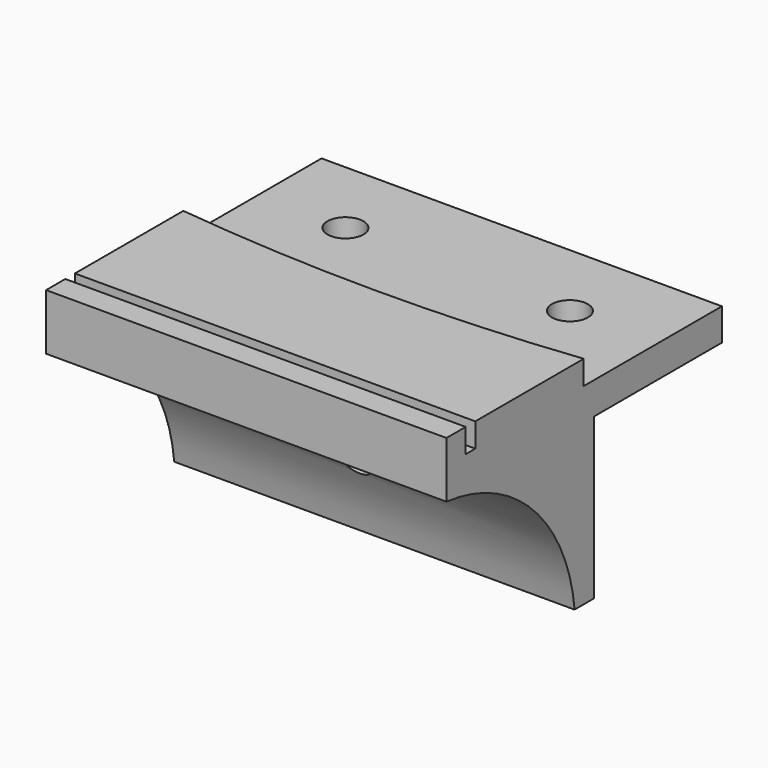
from build123d import *

# Parameters (mm, degrees)
F0_R          = 2.25
F0_W          = 50
F0_H          = 1.5
F0_H_2        = 3
F1_DEPTH      = 4
F2_DEPTH      = 7
F4_DEPTH      = 25
F4_DEPTH_BACK = 25
F6_R          = 2.25
F7_DEPTH      = 23
F6_R_2        = 3.75
F8_DEPTH      = 10


with BuildPart() as f1:
    # F0 (on Top) → F1 (new body)
    with BuildSketch(Plane.XY):
        with BuildLine():
            Line((-25, 43), (-25, 21.42507))
            ThreePointArc((-25, 21.42507), (0, 20), (25, 21.42507))
            Line((25, 21.42507), (25, 43))
            Line((25, 43), (-25, 43))
        make_face()
        with Locations((-14.01787, 33)):
            Circle(F0_R, mode=Mode.SUBTRACT)
        with Locations((14.01787, 33)):
            Circle(F0_R, mode=Mode.SUBTRACT)
        with BuildLine():
            ThreePointArc((25, 21.42507), (0, 20), (-25, 21.42507))
            Line((-25, 21.42507), (-25, 4.5))
            Line((-25, 4.5), (25, 4.5))
            Line((25, 4.5), (25, 21.42507))
        make_face()
        with Locations((0, 3.75)):
            Rectangle(F0_W, F0_H)
        with Locations((0, 1.5)):
            Rectangle(F0_W, F0_H_2)
    extrude(amount=F1_DEPTH)

    # F0 (on Top) → F2 (join)
    with BuildSketch(Plane.XY):
        with BuildLine():
            ThreePointArc((25, 21.42507), (0, 20), (-25, 21.42507))
            Line((-25, 21.42507), (-25, 4.5))
            Line((-25, 4.5), (25, 4.5))
            Line((25, 4.5), (25, 21.42507))
        make_face()
        with Locations((0, 1.5)):
            Rectangle(F0_W, F0_H_2)
    extrude(amount=F2_DEPTH)

    # F3 (on Right) → F4 (join, two sides)
    with BuildSketch(Plane.YZ) as f4_sk:
        with BuildLine():
            Line((23, 0), (0, 0))
            ThreePointArc((0, 0), (13.557431, -6.442569), (20, -20))
            Line((20, -20), (23, -20))
            Line((23, -20), (23, 0))
        make_face()
    extrude(amount=F4_DEPTH)
    extrude(f4_sk.sketch, amount=-F4_DEPTH_BACK)

    # F6 (on Front) → F7 (cut, through all)
    with BuildSketch(Plane.XZ):
        with Locations((0, -10)):
            Circle(F6_R)
    extrude(amount=-F7_DEPTH, mode=Mode.SUBTRACT)

    # F6 (on Front) → F8 (cut)
    with BuildSketch(Plane.XZ):
        with Locations((0, -10)):
            Circle(F6_R_2)
        with Locations((0, -10)):
            Circle(F6_R, mode=Mode.SUBTRACT)
    extrude(amount=-F8_DEPTH, mode=Mode.SUBTRACT)


solid = f1.part
